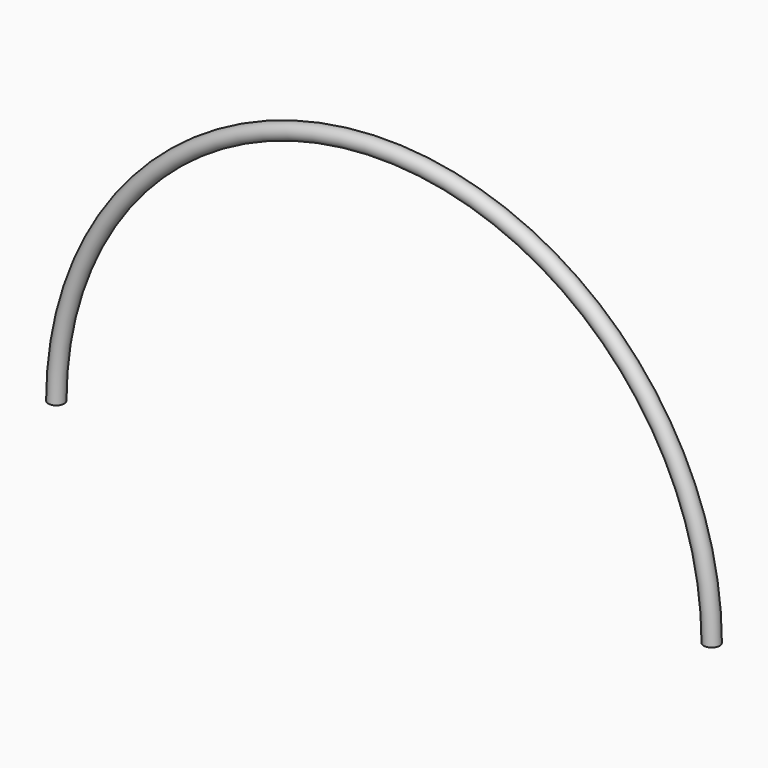
from build123d import *

# Parameters (mm, degrees)
F0_R     = 13.349622
F0_R_2   = 7.5
F1_ANGLE = -180


with BuildPart() as f1:
    # F0 (on Top) → F1 (revolve)
    with BuildSketch(Plane.XY):
        with Locations((-49.070768, 0)):
            Circle(F0_R)
        with Locations((-49.070768, 0)):
            Circle(F0_R_2, mode=Mode.SUBTRACT)
    revolve(axis=Axis((500, 6.12022, 0), (0, -1, 0)), revolution_arc=F1_ANGLE)


solid = f1.part
